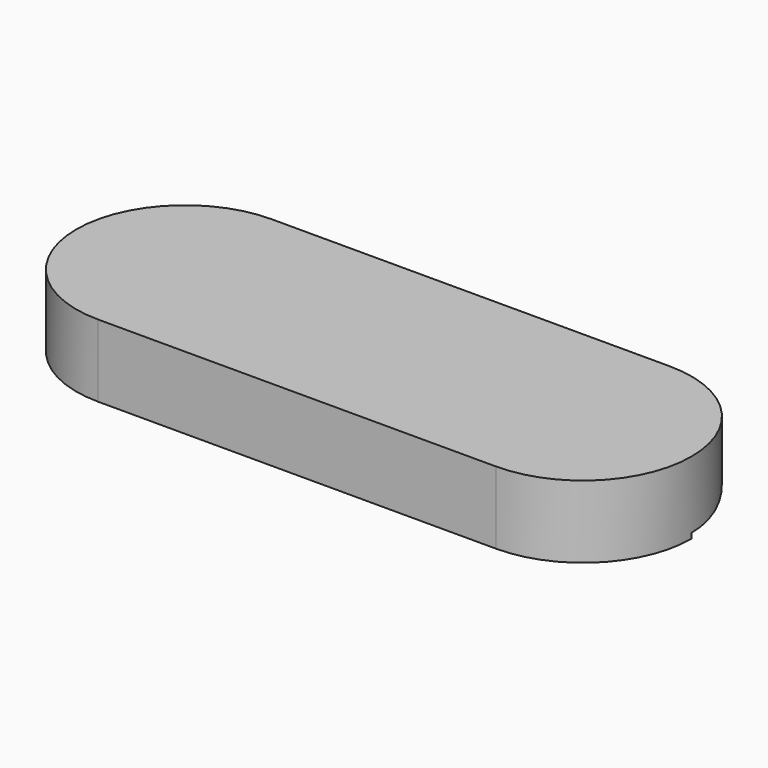
from build123d import *

# Parameters (mm, degrees)
F1_DEPTH = 12.7
F3_DEPTH = 50.8


with BuildPart() as f1:
    # F0 (on Top) → F1 (new body)
    with BuildSketch(Plane.XY):
        with BuildLine():
            ThreePointArc((34.924999, -19.05), (53.974999, -1e-06), (34.925001, 19.05))
            Line((34.925001, 19.05), (-34.924999, 19.05))
            ThreePointArc((-34.924999, 19.05), (-53.975001, 1e-06), (-34.925001, -19.05))
            Line((-34.925001, -19.05), (34.924999, -19.05))
        make_face()
    extrude(amount=F1_DEPTH)

    # F2 (on Front) → F3 (cut)
    with BuildSketch(Plane.XZ):
        with BuildLine():
            ThreePointArc((-25.293126, 0), (1.228994, 2.061294), (27.751113, 0))
            Line((27.751113, 0), (56.808557, 0))
            ThreePointArc((56.808557, 0), (1.228994, 8.874986), (-54.35057, 0))
            Line((-54.35057, 0), (-25.293126, 0))
        make_face()
    extrude(amount=-F3_DEPTH, mode=Mode.SUBTRACT)


solid = f1.part
